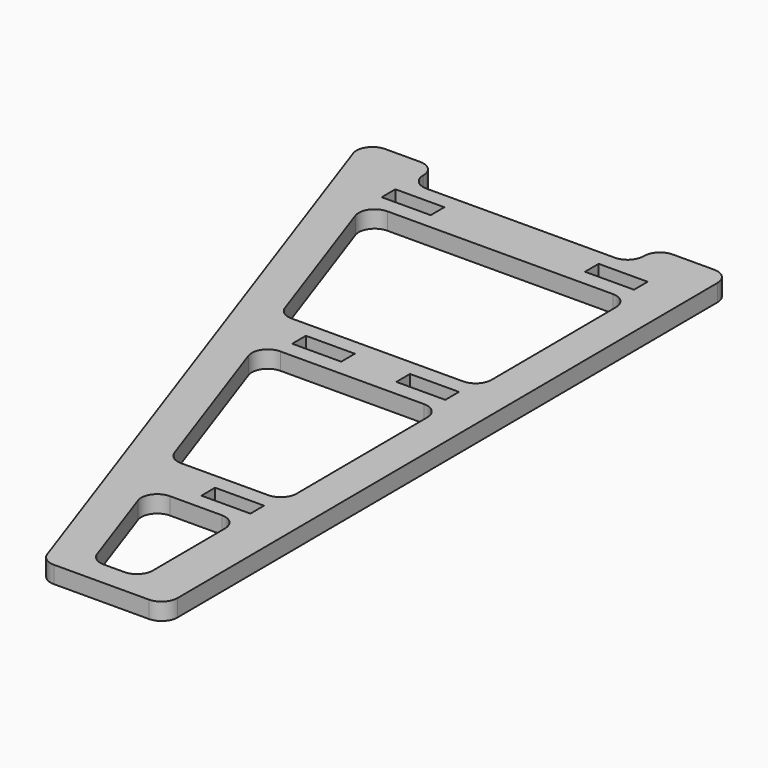
from build123d import *

# Parameters (mm, degrees)
SKETCH_W               = 20
SKETCH_H               = 7
PAD_DEPTH              = 7
FILLET_R               = 6.5
MIRROR_ROLL_ANGLE      = -179.860318
MIRROR_PITCH_ANGLE     = 1.669328
MIRROR_PLACEMENT_ANGLE = 0.337481


with BuildPart() as body:
    # Sketch → Pad (new body)
    with BuildSketch(Plane.XY):
        Polygon((0, 290), (50, 290), (150, 0), (120, 0), (120, 13.2), (30, 13.2), (30, 0), (0, 0), align=None)
        Polygon((15, 210), (15, 130), (89.30566, 130), (61.719453, 210), align=None, mode=Mode.SUBTRACT)
        Polygon((15, 110), (15, 33.2), (122.684971, 33.2), (96.202212, 110), align=None, mode=Mode.SUBTRACT)
        Polygon((18, 280), (18, 230), (54.822902, 230), (37.581522, 280), align=None, mode=Mode.SUBTRACT)
        with Locations((28, 220)):
            Rectangle(SKETCH_W, SKETCH_H, mode=Mode.SUBTRACT)
        with Locations((28, 120)):
            Rectangle(SKETCH_W, SKETCH_H, mode=Mode.SUBTRACT)
        with Locations((70.5, 120)):
            Rectangle(SKETCH_W, SKETCH_H, mode=Mode.SUBTRACT)
        with Locations((28, 23.2)):
            Rectangle(SKETCH_W, SKETCH_H, mode=Mode.SUBTRACT)
        with Locations((111, 23.2)):
            Rectangle(SKETCH_W, SKETCH_H, mode=Mode.SUBTRACT)
    extrude(amount=PAD_DEPTH)

    # Fillet
    fillet_edges = [body.edges().sort_by_distance(p)[0] for p in [
        (0, 0, 3.5),
        (50, 290, 3.5),
        (0, 290, 3.5),
        (150, 0, 3.5),
        (120, 0, 3.5),
        (30, 0, 3.5),
        (61.719453, 210, 3.5),
        (15, 210, 3.5),
        (96.202212, 110, 3.5),
        (15, 110, 3.5),
        (15, 130, 3.5),
        (15, 33.2, 3.5),
        (122.684971, 33.2, 3.5),
        (89.30566, 130, 3.5),
        (30, 13.2, 3.5),
        (120, 13.2, 3.5),
        (18, 280, 3.5),
        (18, 230, 3.5),
        (37.581522, 280, 3.5),
        (54.822902, 230, 3.5),
    ]]
    fillet(fillet_edges, radius=FILLET_R)


with BuildPart() as body_1:
    # Body placement: moved
    add(body.part.moved(Location((-2, 0, 0))))


with BuildPart() as clone006:
    # mirror: instance of Body
    add(body_1.part.mirror(Plane(origin=(159.181488, 124.226166, 5.790833), x_dir=(-0.001618, 0.999999, 0), z_dir=(-0.999887, -0.001617, 0.014919))))


with BuildPart() as clone006_1:
    # mirror roll: moved
    add(clone006.part.rotate(Axis((0, 0, 0), (1, 0, 0)), MIRROR_ROLL_ANGLE))


with BuildPart() as clone006_2:
    # mirror pitch: moved
    add(clone006_1.part.rotate(Axis((0, 0, 0), (0, 1, 0)), MIRROR_PITCH_ANGLE))


with BuildPart() as clone006_3:
    # mirror placement: moved
    add(clone006_2.part.moved(Location((-113.201923, 287.892908, 10.586))).rotate(Axis((-113.201923, 287.892908, 10.586), (0, 0, 1)), MIRROR_PLACEMENT_ANGLE))


solid = clone006_3.part
